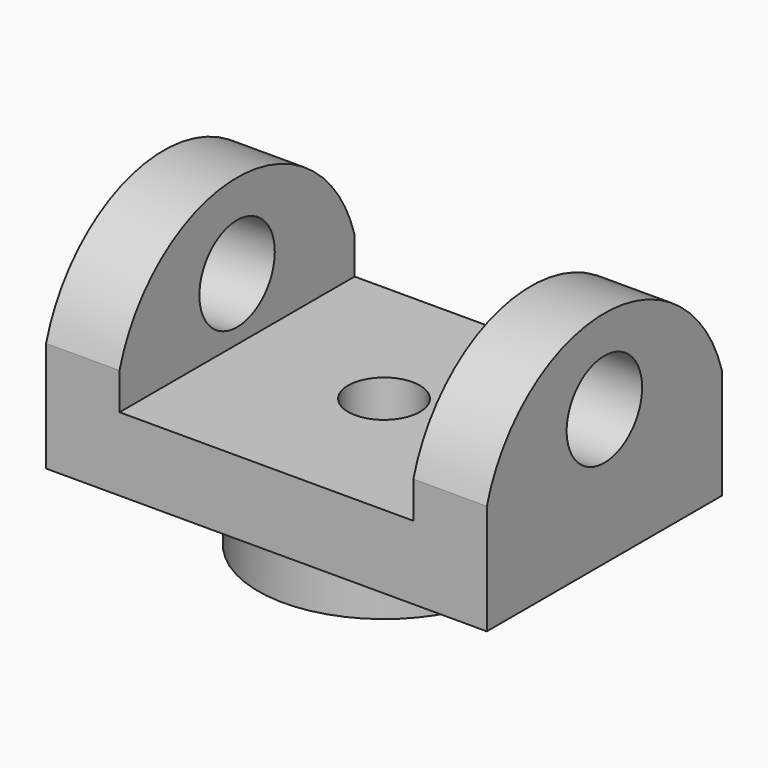
from build123d import *

# Parameters (mm, degrees)
F0_W           = 3048
F0_H           = 2032
F1_DEPTH       = 1524
F3_DEPTH       = 3048.001
F5_W           = 2032
F5_H           = 1315.5198163623
F6_DEPTH       = 2133.601
F7_R           = 870.4042517591
F7_R_2         = 646.9801635048
F8_DEPTH       = 381
F9_R           = 248.0784284922
F10_DEPTH      = 1734.82
F11_R          = 325.9865562234
F12_DEPTH      = 1981.2
F12_DEPTH_BACK = 1854.2


with BuildPart() as f1:
    # F0 (on Top) → F1 (new body)
    with BuildSketch(Plane.XY):
        Rectangle(F0_W, F0_H)
    extrude(amount=F1_DEPTH)

    # F2 (on face) → F3 (cut, through all)
    with BuildSketch(Plane.YZ.offset(1524)):
        with BuildLine():
            ThreePointArc((7.186e-07, 1524), (635.0000002874, 1312.3333331178), (1016, 762))
            Line((1016, 762), (1016, 1524))
            Line((1016, 1524), (7.186e-07, 1524))
        make_face()
        with BuildLine():
            ThreePointArc((-1016, 762), (-634.9999997126, 1312.3333335489), (7.186e-07, 1524))
            Line((7.186e-07, 1524), (-1016, 1524))
            Line((-1016, 1524), (-1016, 762))
        make_face()
    extrude(amount=-F3_DEPTH, mode=Mode.SUBTRACT)

    # F5 (on offset) → F6 (cut, through all)
    with BuildSketch(Plane.XZ.offset(1117.6)):
        with Locations((0, 1165.7599081811)):
            Rectangle(F5_W, F5_H)
    extrude(amount=-F6_DEPTH, mode=Mode.SUBTRACT)

    # F7 (on Top) → F8 (join)
    with BuildSketch(Plane.XY):
        Circle(F7_R)
        Circle(F7_R_2, mode=Mode.SUBTRACT)
    extrude(amount=-F8_DEPTH)

    # F9 (on face) → F10 (cut)
    with BuildSketch(Plane(origin=(0, 0, 0), x_dir=(1, 0, 0), z_dir=(0, 0, -1))):
        Circle(F9_R)
    extrude(amount=-F10_DEPTH, mode=Mode.SUBTRACT)

    # F11 (on Right) → F12 (cut, two sides)
    with BuildSketch(Plane.YZ) as f12_sk:
        with Locations((0, 939.0860795975)):
            Circle(F11_R)
    extrude(amount=-F12_DEPTH, mode=Mode.SUBTRACT)
    extrude(f12_sk.sketch, amount=F12_DEPTH_BACK, mode=Mode.SUBTRACT)


solid = f1.part
